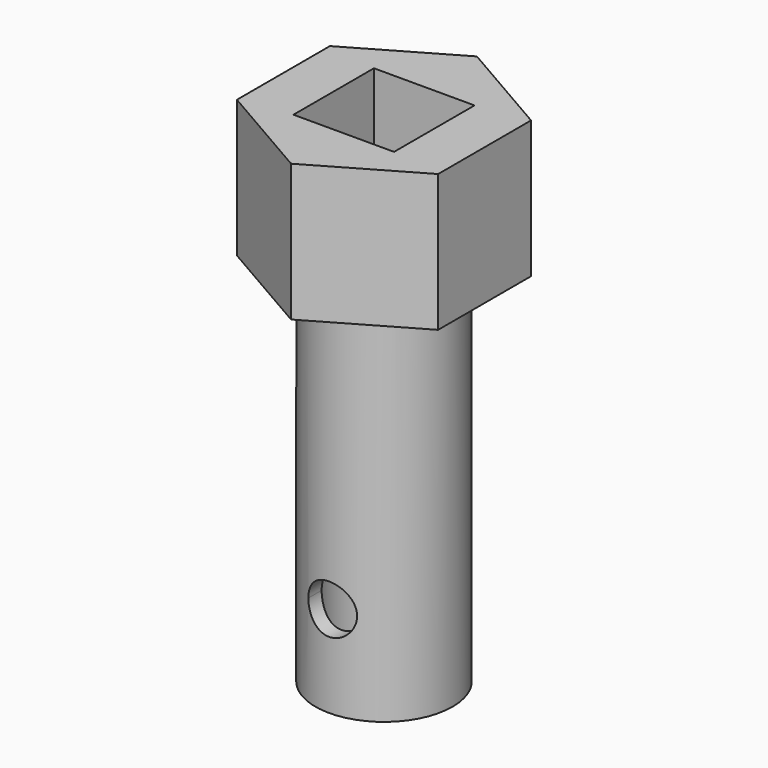
from build123d import *

# Parameters (mm, degrees)
F1_DEPTH      = 9
F3_DEPTH      = 25
F4_R          = 4.5
F4_R_2        = 3.5
F5_DEPTH      = 24
F7_DEPTH      = 25
F7_DEPTH_BACK = 25


with BuildPart() as f1:
    # F0 (on Top) → F1 (new body)
    with BuildSketch(Plane.XY):
        Polygon((-3.3, 3.3), (-3.3, 0), (-3.3, -3.3), (0, -3.3), (3.3, -3.3), (3.3, 0), (3.3, 3.3), (0, 3.3), align=None)
        Polygon((6.6, -3.810512), (6.6, 3.810512), (0, 7.621024), (-6.6, 3.810512), (-6.6, -3.810512), (0, -7.621024), align=None)
        Polygon((-3.3, -3.3), (-3.3, 0), (-3.3, 3.3), (0, 3.3), (3.3, 3.3), (3.3, 0), (3.3, -3.3), (0, -3.3), align=None, mode=Mode.SUBTRACT)
    extrude(amount=F1_DEPTH)

    # F2 (on face) → F3 (cut)
    with BuildSketch(Plane(origin=(-6.6, 0, 0), x_dir=(0, -1, 0), z_dir=(-1, 0, 0))):
        with BuildLine():
            ThreePointArc((1.6, -12), (1.131371, -10.868629), (0, -10.4))
            ThreePointArc((0, -10.4), (-1.131371, -13.131371), (1.6, -12))
        make_face()
    extrude(amount=-F3_DEPTH, mode=Mode.SUBTRACT)

    # F4 (on face) → F5 (join)
    with BuildSketch(Plane(origin=(0, 0, 0), x_dir=(1, 0, 0), z_dir=(0, 0, -1))):
        Circle(F4_R)
        Circle(F4_R_2, mode=Mode.SUBTRACT)
    extrude(amount=F5_DEPTH)

    # F6 (on face) → F7 (cut, two sides)
    with BuildSketch(Plane(origin=(0, -3.3, 0), x_dir=(-1, 0, 0), z_dir=(0, 1, 0))) as f7_sk:
        with BuildLine():
            ThreePointArc((0, -16.4), (-1.131371, -19.131371), (1.6, -18))
            ThreePointArc((1.6, -18), (1.131371, -16.868629), (0, -16.4))
        make_face()
    extrude(amount=F7_DEPTH, mode=Mode.SUBTRACT)
    extrude(f7_sk.sketch, amount=-F7_DEPTH_BACK, mode=Mode.SUBTRACT)


solid = f1.part
